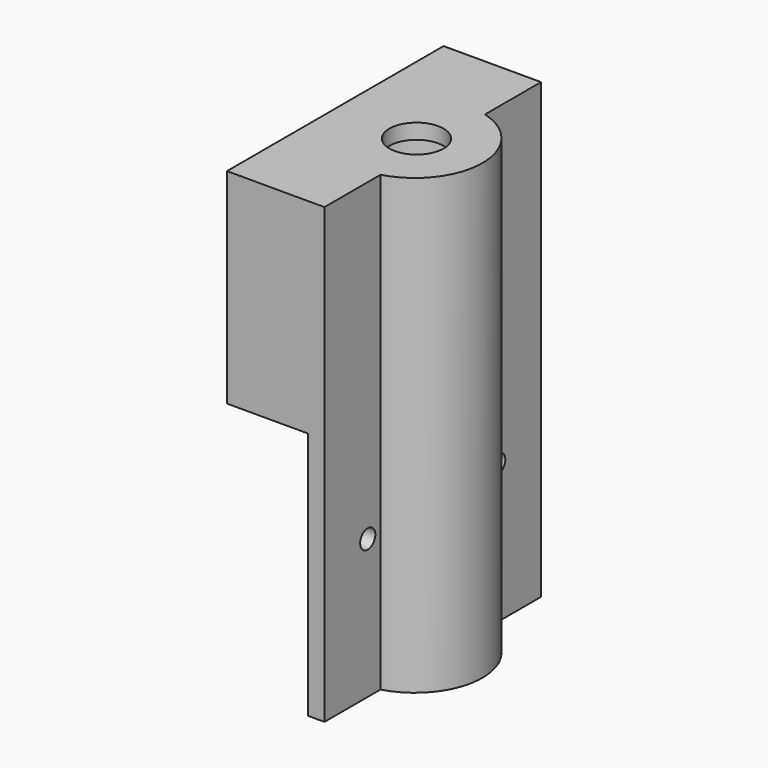
from build123d import *

# Parameters (mm, degrees)
F1_DEPTH  = 16
F2_R      = 9.5
F3_DEPTH  = 35
F5_DEPTH  = 40
F6_DEPTH  = 45.7
F7_W      = 50
F7_H      = 37.8
F8_DEPTH  = 15
F9_R      = 9.5
F10_DEPTH = 35
F11_R     = 5
F12_DEPTH = 25
F13_R     = 1.75
F14_DEPTH = 5


with BuildPart() as f1:
    # F0 (on Right) → F1 (new body)
    with BuildSketch(Plane.YZ):
        Polygon((-25, 0), (0, 0), (25, 0), (25, 38), (-25, 38), align=None)
    extrude(amount=F1_DEPTH)

    # F2 (on face) → F3 (cut)
    with BuildSketch(Plane(origin=(0, 0, 0), x_dir=(1, 0, 0), z_dir=(0, 0, -1))):
        with Locations((-0.3, 0)):
            Circle(F2_R)
    extrude(amount=-F3_DEPTH, mode=Mode.SUBTRACT)

    # F4 (on face) → F5 (cut)
    with BuildSketch(Plane(origin=(0, 0, 0), x_dir=(1, 0, 0), z_dir=(0, 0, -1))):
        with BuildLine():
            Line((16, 25), (3, 25))
            Line((3, 25), (3, 12.0565332544))
            ThreePointArc((3, 12.0565332544), (12.1999997646, 0), (3, -12.0565332544))
            Line((3, -12.0565332544), (3, -25))
            Line((3, -25), (16, -25))
            Line((16, -25), (16, 25))
        make_face()
    extrude(amount=-F5_DEPTH, mode=Mode.SUBTRACT)

    # F6 (add): a face of the model
    f6_faces = [f1.faces().sort_by_distance(p)[0] for p in [
        (0.514668825, -17.2476309882, 0),
    ]]
    extrude(f6_faces, amount=F6_DEPTH)

    # F7 (on face) → F8 (join)
    with BuildSketch(Plane(origin=(0, 0, 0), x_dir=(0, -1, 0), z_dir=(-1, 0, 0))):
        with Locations((0, 19.1)):
            Rectangle(F7_W, F7_H)
    extrude(amount=F8_DEPTH)

    # F9 (on face) → F10 (cut)
    with BuildSketch(Plane(origin=(0, 0, 0.2), x_dir=(1, 0, 0), z_dir=(0, 0, -1))):
        Circle(F9_R)
    extrude(amount=-F10_DEPTH, mode=Mode.SUBTRACT)

    # F11 (on face) → F12 (cut)
    with BuildSketch(Plane.XY.offset(38)):
        Circle(F11_R)
    extrude(amount=-F12_DEPTH, mode=Mode.SUBTRACT)

    # F13 (on face) → F14 (cut)
    with BuildSketch(Plane(origin=(0, 0, 0), x_dir=(0, -1, 0), z_dir=(-1, 0, 0))):
        with Locations((-15, -20)):
            Circle(F13_R)
        with Locations((15, -20)):
            Circle(F13_R)
    extrude(amount=-F14_DEPTH, mode=Mode.SUBTRACT)


solid = f1.part
